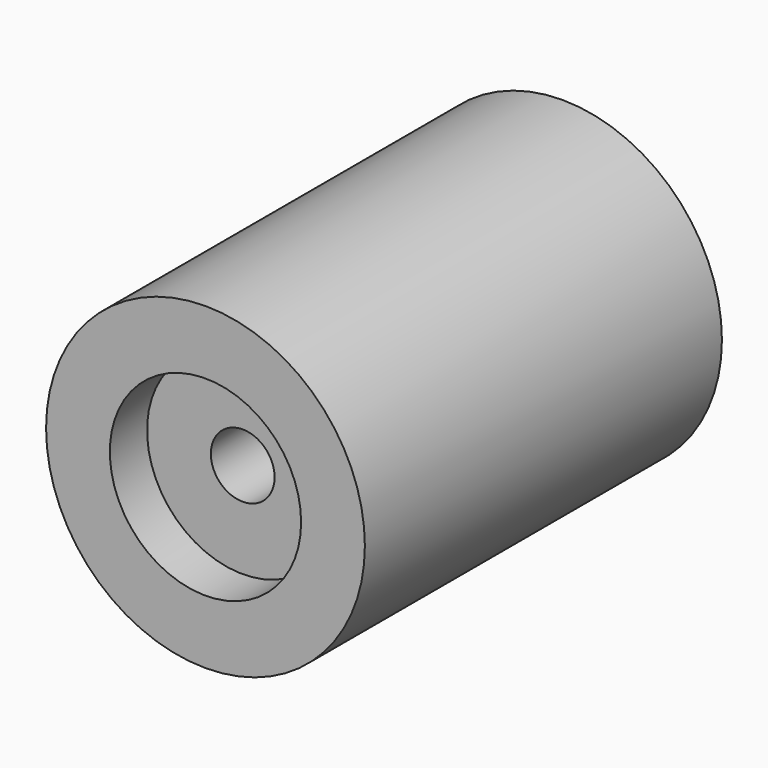
from build123d import *

# Parameters (mm, degrees)
F0_R      = 50
F1_DEPTH  = 70
F1_FACE_R = 50
F2_DEPTH  = 70
F3_R      = 30
F4_DEPTH  = 40
F5_R      = 30
F6_DEPTH  = 25.4
F7_R      = 10
F8_DEPTH  = 80


with BuildPart() as f1:
    # F0 (on Front) → F1 (new body)
    with BuildSketch(Plane.XZ):
        Circle(F0_R)
    extrude(amount=F1_DEPTH)

    # F1_face (on face) → F2 (join)
    with BuildSketch(Plane(origin=(0, 0, 0), x_dir=(1, 0, 0), z_dir=(0, 1, 0))):
        Circle(F1_FACE_R)
    extrude(amount=F2_DEPTH)

    # F3 (on face) → F4 (cut)
    with BuildSketch(Plane.XZ.offset(70)):
        Circle(F3_R)
    extrude(amount=-F4_DEPTH, mode=Mode.SUBTRACT)

    # F5 (on face) → F6 (join)
    with BuildSketch(Plane.XZ.offset(30)):
        Circle(F5_R)
    extrude(amount=F6_DEPTH)

    # F7 (on face) → F8 (cut)
    with BuildSketch(Plane.XZ.offset(55.4)):
        Circle(F7_R)
    extrude(amount=-F8_DEPTH, mode=Mode.SUBTRACT)


solid = f1.part
